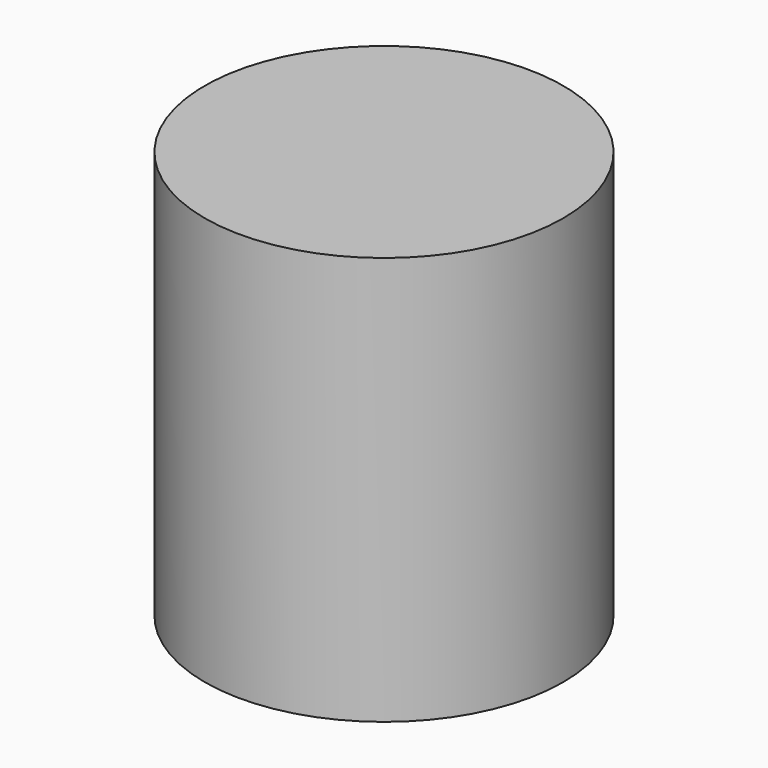
from build123d import *

# Parameters (mm, degrees)
F0_R     = 9
F1_DEPTH = 20.5
F2_R     = 6
F3_DEPTH = 16.5
F4_R     = 3
F5_DEPTH = 17.5


with BuildPart() as f1:
    # F0 (on Top) → F1 (new body)
    with BuildSketch(Plane.XY):
        Circle(F0_R)
    extrude(amount=F1_DEPTH)

    # F2 (on Top) → F3 (cut)
    with BuildSketch(Plane.XY):
        Circle(F2_R)
    extrude(amount=F3_DEPTH, mode=Mode.SUBTRACT)

    # F4 (on Top) → F5 (cut)
    with BuildSketch(Plane.XY):
        Circle(F4_R)
    extrude(amount=F5_DEPTH, mode=Mode.SUBTRACT)


solid = f1.part
